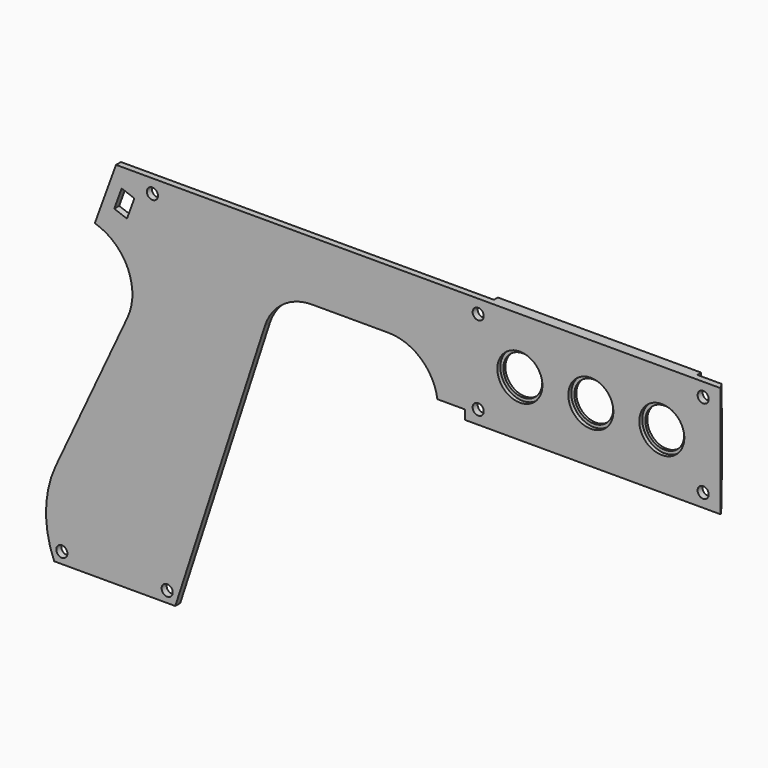
from build123d import *

# Parameters (mm, degrees)
SKETCH074_R      = 1.8
SKETCH074_R_2    = 6.3
PAD004_DEPTH     = 2
SKETCH091_R      = 7.3
POCKET001_DEPTH  = 1.2
SKETCH092_W      = 82.8
SKETCH092_H      = 36
SKETCH092_R      = 1.8
PAD005_DEPTH     = 1.6
CHAMFER001_SIZE2 = 3.4
CHAMFER001_SIZE  = 2.4
POCKET002_DEPTH  = 1.6
CHAMFER002_SIZE  = 1


with BuildPart() as part:
    # Sketch074 → Pad004 (new body)
    with BuildSketch(Plane.XZ):
        with BuildLine():
            Line((-82.8, 3.2), (0, 3.2))
            Line((0, 3.2), (0, 39.2))
            Line((-195.886839, 39.2), (0, 39.2))
            Line((-202.764796, 20.302968), (-195.886839, 39.2))
            ThreePointArc((-192.175575, -3.18451), (-192.085048, 10.987093), (-202.764796, 20.302968))
            Line((-192.175575, -3.18451), (-215.419579, -53.031439))
            ThreePointArc((-215.419579, -53.031439), (-218.578907, -66.677212), (-215.93199, -80.431568))
            Line((-215.93199, -80.431568), (-176.68528, -80.431568))
            Line((-147.645309, 8.944272), (-176.68528, -80.431568))
            ThreePointArc((-132.428405, 20), (-141.832969, 16.944272), (-147.645309, 8.944272))
            Line((-132.428405, 20), (-107.6, 20))
            ThreePointArc((-91.751972, 6.2), (-97.09286, 16.066483), (-107.6, 20))
            Line((-82.8, 6.2), (-91.751972, 6.2))
            Line((-82.8, 3.2), (-82.8, 6.2))
        make_face()
        with Locations((-213.443268, -76.831568)):
            Circle(SKETCH074_R, mode=Mode.SUBTRACT)
        with Locations((-179.304663, -76.831568)):
            Circle(SKETCH074_R, mode=Mode.SUBTRACT)
        with Locations((-184.079668, 34.8)):
            Circle(SKETCH074_R, mode=Mode.SUBTRACT)
        with Locations((-78.51, 34.8)):
            Circle(SKETCH074_R, mode=Mode.SUBTRACT)
        with Locations((-78.51, 7.6)):
            Circle(SKETCH074_R, mode=Mode.SUBTRACT)
        with Locations((-5.6, 34.8)):
            Circle(SKETCH074_R, mode=Mode.SUBTRACT)
        with Locations((-5.6, 7.6)):
            Circle(SKETCH074_R, mode=Mode.SUBTRACT)
        with Locations((-19, 21.2)):
            Circle(SKETCH074_R_2, mode=Mode.SUBTRACT)
        with Locations((-42, 21.2)):
            Circle(SKETCH074_R_2, mode=Mode.SUBTRACT)
        with Locations((-65, 21.2)):
            Circle(SKETCH074_R_2, mode=Mode.SUBTRACT)
        Polygon((-189.938695, 31.567195), (-192.332836, 24.989347), (-196.467483, 26.494236), (-194.073342, 33.072084), (-193.885404, 33.00368), (-190.126633, 31.635599), align=None, mode=Mode.SUBTRACT)
    extrude(amount=PAD004_DEPTH)

    # Sketch091 (on Face29 of Pad004) → Pocket001 (cut)
    with BuildSketch(Plane.XZ.offset(2)):
        with Locations((-65, 21.2)):
            Circle(SKETCH091_R)
        with Locations((-42, 21.2)):
            Circle(SKETCH091_R)
        with Locations((-19, 21.2)):
            Circle(SKETCH091_R)
    extrude(amount=-POCKET001_DEPTH, mode=Mode.SUBTRACT)

    # Sketch092 (on Face4 of Pocket001) → Pad005 (join)
    with BuildSketch(Plane(origin=(0, 0, 0), x_dir=(1, 0, 0), z_dir=(0, 1, 0))):
        with Locations((-41.4, -21.2)):
            Rectangle(SKETCH092_W, SKETCH092_H)
        with Locations((-5.6, -34.8)):
            Circle(SKETCH092_R, mode=Mode.SUBTRACT)
        with Locations((-5.6, -7.6)):
            Circle(SKETCH092_R, mode=Mode.SUBTRACT)
        with Locations((-78.51, -34.8)):
            Circle(SKETCH092_R, mode=Mode.SUBTRACT)
        with Locations((-78.51, -7.6)):
            Circle(SKETCH092_R, mode=Mode.SUBTRACT)
        with BuildLine():
            ThreePointArc((-19, -31.2), (-9, -21.2), (-19, -11.2))
            Line((-19, -11.2), (-65, -11.2))
            ThreePointArc((-65, -11.2), (-75, -21.2), (-65, -31.2))
            Line((-19, -31.2), (-65, -31.2))
        make_face(mode=Mode.SUBTRACT)
    extrude(amount=PAD005_DEPTH)

    # Chamfer001
    chamfer001_edges = [part.edges().sort_by_distance(p)[0] for p in [
        (0, 1.6, 21.2),
        (-41.4, 1.6, 3.2),
        (-82.8, 1.6, 21.2),
    ]]
    chamfer001_side = part.faces().sort_by_distance((-41.4, 1.6, 4.102875))[0]
    chamfer(chamfer001_edges, length=CHAMFER001_SIZE, length2=CHAMFER001_SIZE2, reference=chamfer001_side)

    # Sketch093 (on Face1 of Chamfer001) → Pocket002 (cut)
    with BuildSketch(Plane(origin=(0, 1.6, 0), x_dir=(1, 0, 0), z_dir=(0, 1, 0))):
        with BuildLine():
            ThreePointArc((-5.6, -31.3), (-8.074874, -32.325126), (-9.1, -34.8))
            Line((-9.1, -39.2), (-9.1, -34.8))
            Line((0, -39.2), (-9.1, -39.2))
            Line((0, -39.2), (0, -31.3))
            Line((0, -31.3), (-5.6, -31.3))
        make_face()
        with BuildLine():
            ThreePointArc((-75.01, -34.8), (-76.035126, -32.325126), (-78.51, -31.3))
            Line((-82.8, -31.3), (-78.51, -31.3))
            Line((-82.8, -39.2), (-82.8, -31.3))
            Line((-82.8, -39.2), (-75.01, -39.2))
            Line((-75.01, -39.2), (-75.01, -34.8))
        make_face()
        with BuildLine():
            ThreePointArc((-9.1, -7.6), (-8.074874, -10.074874), (-5.6, -11.1))
            Line((0, -11.1), (-5.6, -11.1))
            Line((0, -3.2), (0, -11.1))
            Line((0, -3.2), (-9.1, -3.2))
            Line((-9.1, -3.2), (-9.1, -7.6))
        make_face()
        with BuildLine():
            ThreePointArc((-78.51, -11.1), (-76.035126, -10.074874), (-75.01, -7.6))
            Line((-75.01, -3.2), (-75.01, -7.6))
            Line((-82.8, -3.2), (-75.01, -3.2))
            Line((-82.8, -3.2), (-82.8, -11.1))
            Line((-82.8, -11.1), (-78.51, -11.1))
        make_face()
    extrude(amount=-POCKET002_DEPTH, mode=Mode.SUBTRACT)

    # Chamfer002
    chamfer002_edges = [part.edges().sort_by_distance(p)[0] for p in [
        (-42, 1.6, 31.2),
        (-9, 1.6, 21.2),
        (-42, 1.6, 11.2),
        (-75, 1.6, 21.2),
    ]]
    chamfer(chamfer002_edges, length=CHAMFER002_SIZE)


solid = part.part
